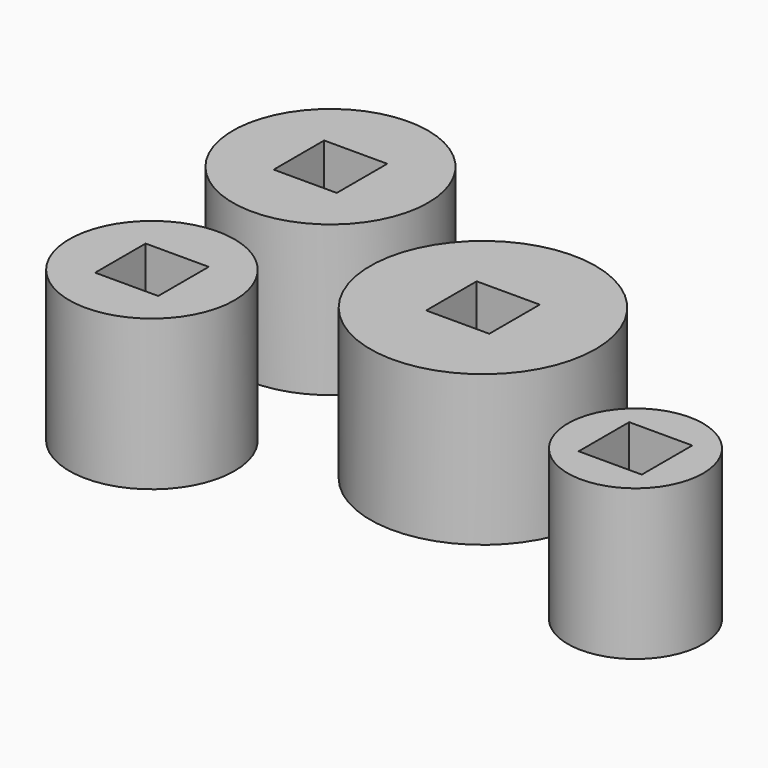
from build123d import *

# Parameters (mm, degrees)
F0_R     = 6.5
F0_W     = 4.2
F0_H     = 4.2
F0_R_2   = 5.5
F0_R_3   = 7.5
F0_R_4   = 4.5
F1_DEPTH = 10


with BuildPart() as f1:
    # F0 (on Top) → F1 (new body)
    with BuildSketch(Plane.XY):
        with Locations((-16.089159, 7.426054)):
            Circle(F0_R)
        with Locations((-16.089159, 7.426054)):
            Rectangle(F0_W, F0_H, mode=Mode.SUBTRACT)
        with Locations((-16.089159, -7.426054)):
            Circle(F0_R_2)
        with Locations((-16.089159, -7.426054)):
            Rectangle(F0_W, F0_H, mode=Mode.SUBTRACT)
        Circle(F0_R_3)
        Rectangle(F0_W, F0_H, mode=Mode.SUBTRACT)
        with Locations((16.089159, -7.426054)):
            Circle(F0_R_4)
        with Locations((16.089159, -7.426054)):
            Rectangle(F0_W, F0_H, mode=Mode.SUBTRACT)
    extrude(amount=F1_DEPTH)


solid = f1.part
